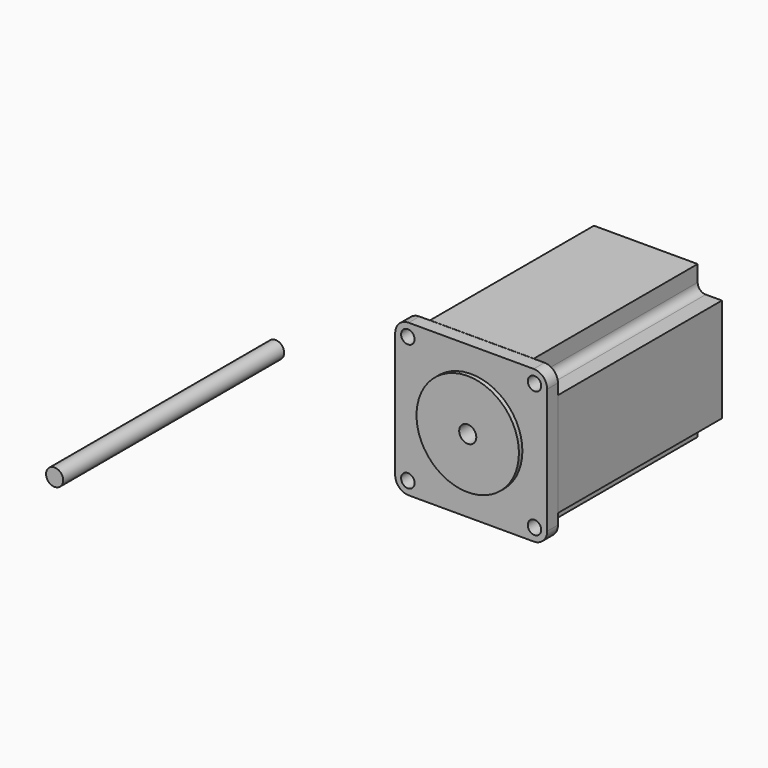
from build123d import *

# Parameters (mm, degrees)
F0_R     = 2.5
F0_R_2   = 19
F1_DEPTH = 5
F0_R_3   = 3.175
F2_DEPTH = 6.6
F3_R     = 3.175
F4_DEPTH = 76
F5_DEPTH = 102.5


with BuildPart() as f1:
    # F0 (on Front) → F1 (new body)
    with BuildSketch(Plane.XZ):
        with BuildLine():
            Line((23.2, 28.2), (-23.2, 28.2))
            ThreePointArc((-23.2, 28.2), (-26.735534, 26.735534), (-28.2, 23.2))
            Line((-28.2, 23.2), (-28.2, -23.2))
            ThreePointArc((-28.2, -23.2), (-26.735534, -26.735534), (-23.2, -28.2))
            Line((-23.2, -28.2), (23.2, -28.2))
            ThreePointArc((23.2, -28.2), (26.735534, -26.735534), (28.2, -23.2))
            Line((28.2, -23.2), (28.2, 23.2))
            ThreePointArc((28.2, 23.2), (26.735534, 26.735534), (23.2, 28.2))
        make_face()
        with Locations((-23.5, -23.5)):
            Circle(F0_R, mode=Mode.SUBTRACT)
        with Locations((23.5, -23.5)):
            Circle(F0_R, mode=Mode.SUBTRACT)
        Circle(F0_R_2, mode=Mode.SUBTRACT)
        with Locations((-23.5, 23.5)):
            Circle(F0_R, mode=Mode.SUBTRACT)
        with Locations((23.5, 23.5)):
            Circle(F0_R, mode=Mode.SUBTRACT)
    extrude(amount=F1_DEPTH)

    # F0 (on Front) → F2 (join)
    with BuildSketch(Plane.XZ):
        Circle(F0_R_2)
        Circle(F0_R_3, mode=Mode.SUBTRACT)
    extrude(amount=F2_DEPTH)

    # F3 (on face) → F4 (join)
    with BuildSketch(Plane.XZ):
        with BuildLine():
            Line((28.25, -19.25), (28.25, 19.25))
            Line((28.25, 19.25), (22.25, 19.25))
            ThreePointArc((22.25, 19.25), (20.12868, 20.12868), (19.25, 22.25))
            Line((19.25, 22.25), (19.25, 28.25))
            Line((19.25, 28.25), (-19.25, 28.25))
            Line((-19.25, 28.25), (-19.25, 22.25))
            ThreePointArc((-19.25, 22.25), (-20.12868, 20.12868), (-22.25, 19.25))
            Line((-22.25, 19.25), (-28.25, 19.25))
            Line((-28.25, 19.25), (-28.25, -19.25))
            Line((-28.25, -19.25), (-22.25, -19.25))
            ThreePointArc((-22.25, -19.25), (-20.12868, -20.12868), (-19.25, -22.25))
            Line((-19.25, -22.25), (-19.25, -28.25))
            Line((-19.25, -28.25), (19.25, -28.25))
            Line((19.25, -28.25), (19.25, -22.25))
            ThreePointArc((19.25, -22.25), (20.12868, -20.12868), (22.25, -19.25))
            Line((22.25, -19.25), (28.25, -19.25))
        make_face()
        Circle(F3_R, mode=Mode.SUBTRACT)
    extrude(amount=-F4_DEPTH)


with BuildPart() as f5:
    # F0 (on Front) → F5 (new body)
    with BuildSketch(Plane.XZ):
        with Locations((-76.581754, 0)):
            Circle(F0_R_3)
    extrude(amount=F5_DEPTH)


solid = Compound([f1.part, f5.part])
